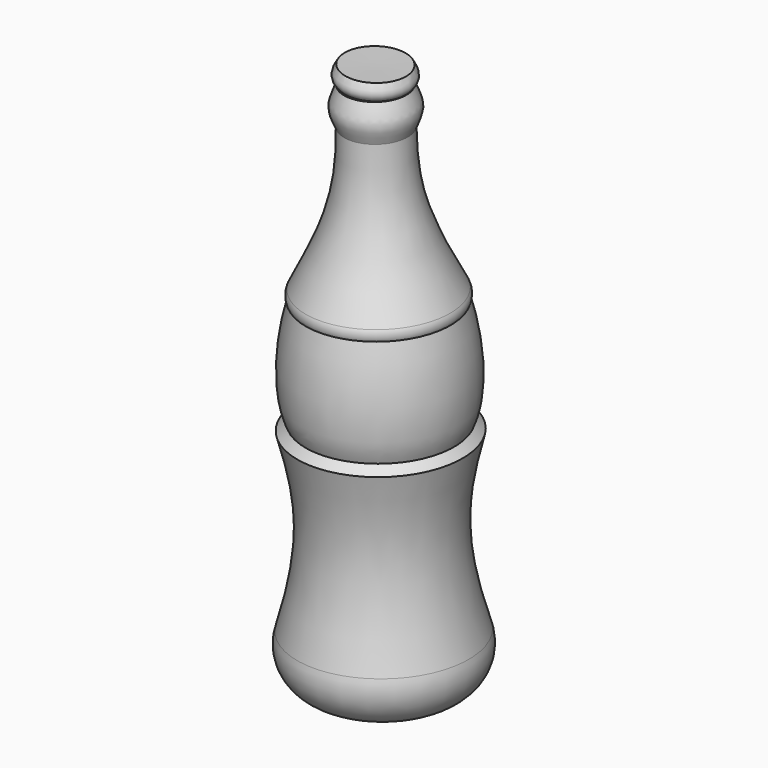
from build123d import *


with BuildPart() as f1:
    # F0 (on Front) → F1 (revolve)
    with BuildSketch(Plane.XZ):
        with BuildLine():
            Line((-27.8176129689, 18.2430874556), (-32.0246070623, 18.2430874556))
            add(Edge.make_bspline(
                [(-32.0246070623, 18.2430874556), (-31.919579953, 11.3113634288), (-32.8484103084, 7.6850618352), (-37.0609350502, -0.7666411693)],
                knots=[0, 0, 0, 0, 19.6655633531, 19.6655633531, 19.6655633531, 19.6655633531], degree=3))
            ThreePointArc((-37.0609350502, -0.7666411693), (-37.2251563452, -1.4642624592), (-37.0609350502, -2.1618837491))
            add(Edge.make_bspline(
                [(-37.0609350502, -2.1618837491), (-38.2803045213, -6.7345271818), (-38.7469107343, -12.6484790817), (-37.0609350502, -16.2990570642)],
                knots=[0, 0, 0, 0, 14.1371733151, 14.1371733151, 14.1371733151, 14.1371733151], degree=3))
            Line((-37.0609350502, -16.2990570642), (-38.1619296968, -17.3131749908))
            add(Edge.make_bspline(
                [(-38.1619296968, -17.3131749908), (-36.0144041479, -24.7142240405), (-35.1553931832, -30.12599051), (-38.1619296968, -40.691819042)],
                knots=[0, 0, 0, 0, 23.3786440512, 23.3786440512, 23.3786440512, 23.3786440512], degree=3))
            ThreePointArc((-38.1619296968, -40.691819042), (-37.8988129309, -44.3848913189), (-35.3271961212, -47.0484979451))
            Line((-35.3271961212, -47.0484979451), (-26.6941422597, -47.0484979451))
            Line((-26.6941422597, -47.0484979451), (-27.8176129689, 18.2430874556))
        make_face()
        with BuildLine():
            add(Edge.make_bspline(
                [(-32.0246070623, 18.2430874556), (-32.9081639647, 20.3592814505), (-33.243983984, 20.3592814505), (-32.0246070623, 23.1572017074)],
                knots=[0, 0, 0, 0, 4.9141142517, 4.9141142517, 4.9141142517, 4.9141142517], degree=3))
            Line((-32.0246070623, 18.2430874556), (-27.8176129689, 18.2430874556))
            Line((-27.8176129689, 18.2430874556), (-27.9021700123, 23.1572017074))
            Line((-27.9021700123, 23.1572017074), (-32.0246070623, 23.1572017074))
        make_face()
        with BuildLine():
            add(Edge.make_bspline(
                [(-32.0246070623, 18.2430874556), (-32.9081639647, 20.3592814505), (-33.243983984, 20.3592814505), (-32.0246070623, 23.1572017074)],
                knots=[0, 0, 0, 0, 4.9141142517, 4.9141142517, 4.9141142517, 4.9141142517], degree=3))
            Line((-32.0246070623, 18.2430874556), (-27.8176129689, 18.2430874556))
            Line((-27.8176129689, 18.2430874556), (-27.9021700123, 23.1572017074))
            Line((-27.9021700123, 23.1572017074), (-32.0246070623, 23.1572017074))
        make_face()
    revolve(axis=Axis((-27.298156136, 0, -11.9456481189), (0.0172044287, 0, -0.9998519929)))


with BuildPart() as f4:
    # F3 (on face) → F4 (revolve)
    with BuildSketch(Plane(origin=(0, 0, 0), x_dir=(-1, 0, 0), z_dir=(0, 1, 0))):
        with BuildLine():
            add(Edge.make_bspline(
                [(23.8265637308, 23.3080498874), (23.3356971294, 23.7989127636), (23.0902675539, 24.3388619274), (23.8265637308, 25.4678465426)],
                knots=[0, 0, 0, 0, 2.1597966552, 2.1597966552, 2.1597966552, 2.1597966552], degree=3))
            Line((23.8265637308, 23.3080498874), (27.9490007808, 23.3080498874))
            Line((27.9490007808, 23.3080498874), (27.9118372127, 25.4678465426))
            Line((27.9118372127, 25.4678465426), (23.8265637308, 25.4678465426))
        make_face()
    revolve(axis=Axis((-27.9304189968, 0, 24.387948215), (-0.0172044287, 0, -0.9998519929)))


solid = Compound([f1.part, f4.part])
